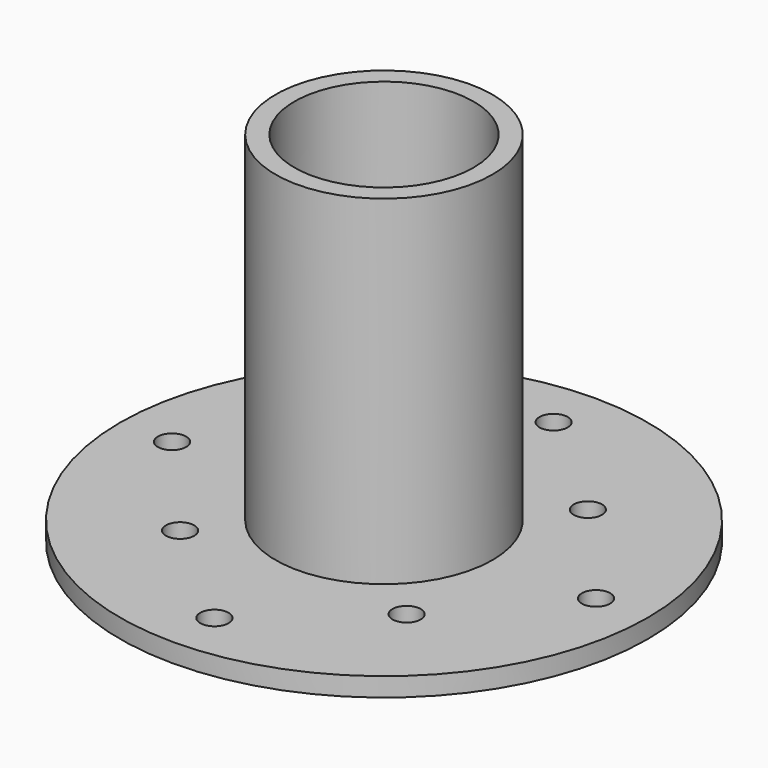
from build123d import *

# Parameters (mm, degrees)
F0_R     = 88.9
F0_R_2   = 4.7625
F1_DEPTH = 6.35
F2_R     = 36.5125
F2_R_2   = 30.1625
F3_DEPTH = 114.3


with BuildPart() as f1:
    # F0 (on Top) → F1 (new body)
    with BuildSketch(Plane.XY):
        Circle(F0_R)
        with Locations((-38.148128, -38.148128)):
            Circle(F0_R_2, mode=Mode.SUBTRACT)
        with Locations((0, -71.3994)):
            Circle(F0_R_2, mode=Mode.SUBTRACT)
        with Locations((38.148128, -38.148128)):
            Circle(F0_R_2, mode=Mode.SUBTRACT)
        with Locations((-71.3994, 0)):
            Circle(F0_R_2, mode=Mode.SUBTRACT)
        with Locations((-38.148128, 38.148128)):
            Circle(F0_R_2, mode=Mode.SUBTRACT)
        with Locations((38.148128, 38.148128)):
            Circle(F0_R_2, mode=Mode.SUBTRACT)
        with Locations((71.3994, 0)):
            Circle(F0_R_2, mode=Mode.SUBTRACT)
        with Locations((0, 71.3994)):
            Circle(F0_R_2, mode=Mode.SUBTRACT)
    extrude(amount=F1_DEPTH)

    # F2 (on face) → F3 (join)
    with BuildSketch(Plane.XY.offset(6.35)):
        Circle(F2_R)
        Circle(F2_R_2, mode=Mode.SUBTRACT)
    extrude(amount=F3_DEPTH)


solid = f1.part
